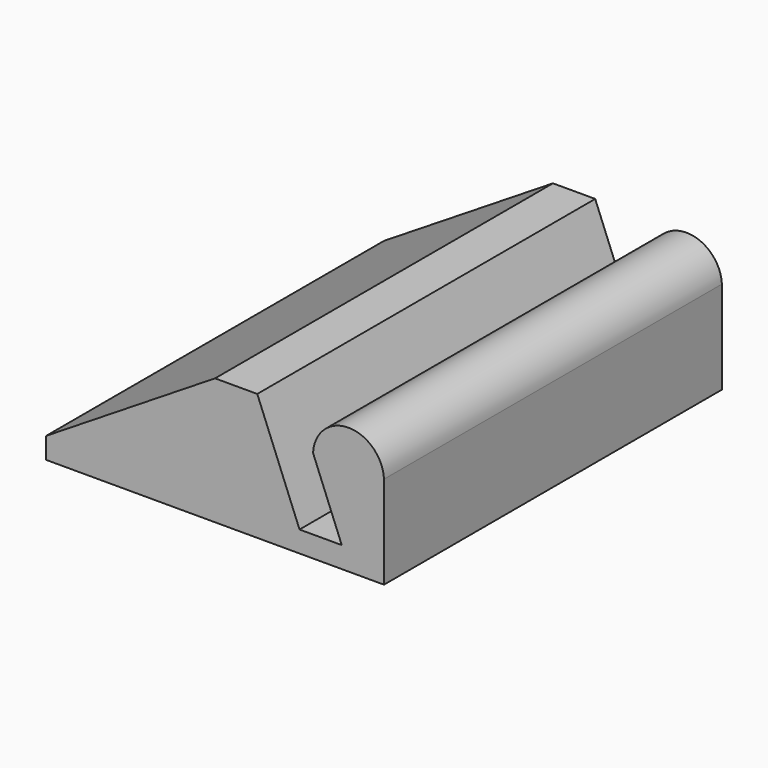
from build123d import *

# Parameters (mm, degrees)
F1_DEPTH = 50


with BuildPart() as f1:
    # F0 (on Front) → F1 (new body, symmetric)
    with BuildSketch(Plane.XZ):
        with BuildLine():
            Line((-60, -5), (-20, -5))
            Line((-20, -5), (20, -5))
            Line((20, -5), (20, 17))
            ThreePointArc((20, 17), (11.6, 25), (3.2, 17))
            Line((3.2, 17), (10, 0))
            Line((10, 0), (0, 0))
            Line((0, 0), (-10, 25))
            Line((-10, 25), (-20, 25))
            Line((-20, 25), (-60, 0))
            Line((-60, 0), (-60, -5))
        make_face()
    extrude(amount=F1_DEPTH, both=True)


solid = f1.part
